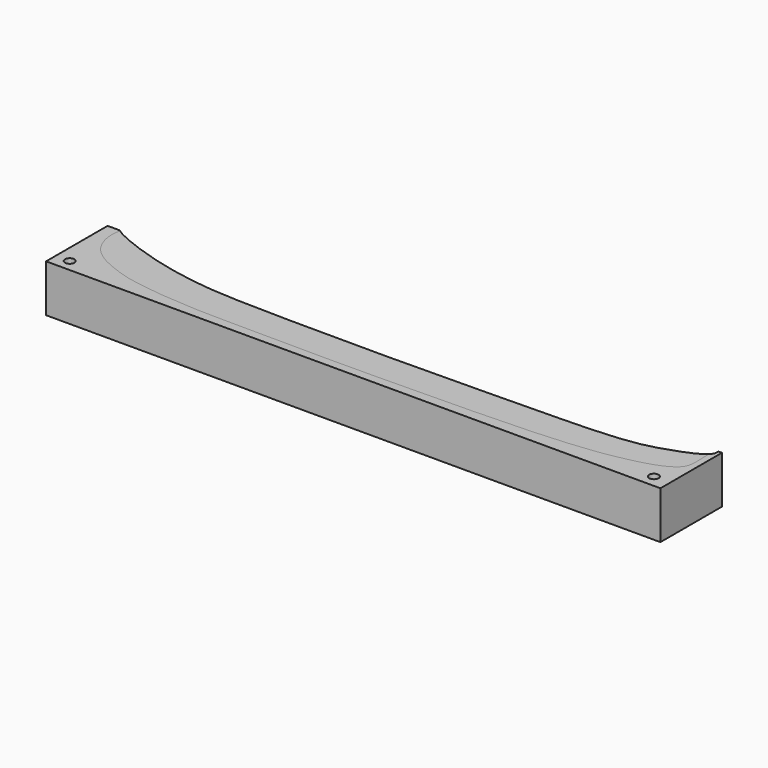
from build123d import *

# Parameters (mm, degrees)
F0_R     = 2.5
F1_DEPTH = 25
F2_DEPTH = 25


with BuildPart() as f1:
    # F0 (on Top) → F1 (new body)
    with BuildSketch(Plane.XY):
        with BuildLine():
            add(Edge.make_bspline(
                [(-139.6352648735, 58.5909076035), (-139.5458598012, 58.5056858184), (-139.4456585226, 58.4177304997), (-139.3350446622, 58.3271923155)],
                knots=[0.0519347063, 0.0519347063, 0.0519347063, 0.0519347063, 0.0546963792, 0.0546963792, 0.0546963792, 0.0546963792], degree=3))
            Line((-139.6352648735, 58.5909076035), (-146.1143195629, 58.5909076035))
            Line((-146.1143195629, 58.5909076035), (-146.1143195629, 18.0872287601))
            Line((-146.1143195629, 18.0872287601), (177.581384778, 18.0872287601))
            Line((177.581384778, 18.0872287601), (177.581384778, 58.5909076035))
            Line((177.581384778, 58.5909076035), (175.656914711, 58.5909076035))
            add(Edge.make_bspline(
                [(174.1334632158, 54.4083624755), (174.7589441287, 54.9900134208), (175.8482915478, 56.281992237), (175.7701217806, 57.3003767663), (175.656914711, 58.5909076035)],
                knots=[0.9557715358, 0.9557715358, 0.9557715358, 0.9557715358, 0.9756366505, 1, 1, 1, 1], degree=3))
            add(Edge.make_bspline(
                [(174.1334632167, 54.4083624753), (174.189893801, 53.4633263464), (174.3830940173, 49.9830432128), (174.5814578504, 43.8028608554), (173.412606994, 39.1153453617), (169.1738071407, 35.6656723823), (161.1580991011, 31.949330655), (146.3971621435, 28.7244595214), (136.9132024714, 27.0832818961), (123.2004081581, 25.6640246994), (108.061622488, 24.5449391203), (75.1273388607, 23.4022640038), (36.4724110663, 23.0155308696), (3.8686453776, 22.312997387), (-51.6045414938, 23.112387578), (-65.9223980086, 22.845835978), (-81.2091917194, 23.7778679853), (-93.4189652884, 24.6907796428), (-104.5493986686, 26.3614067505), (-112.7179166089, 27.9286127663), (-126.7693065864, 33.0119117868), (-135.1654556464, 39.2561404523), (-139.0612596293, 46.549964157), (-140.1279867526, 53.2114625896), (-139.7553147718, 56.1724771596), (-139.3350446622, 58.3271923154)],
                knots=[0.0188545575, 0.0188545575, 0.0188545575, 0.0188545575, 0.0314598083, 0.0643816109, 0.0895220461, 0.1156902656, 0.1509909316, 0.1967167381, 0.2340578143, 0.2765590142, 0.322541721, 0.3901577668, 0.4632708166, 0.5335655039, 0.6202414521, 0.6657616014, 0.7104357276, 0.7524392743, 0.7912043954, 0.825642324, 0.8709436249, 0.9092092615, 0.9425028529, 0.9722649913, 0.9989276527, 0.9989276527, 0.9989276527, 0.9989276527], degree=3))
        make_face()
        with Locations((-138.7113034725, 24.3864804506)):
            Circle(F0_R, mode=Mode.SUBTRACT)
        with Locations((168.9060181379, 24.6229264885)):
            Circle(F0_R, mode=Mode.SUBTRACT)
        with BuildLine():
            add(Edge.make_bspline(
                [(-139.3350446622, 58.3271923155), (-136.1141597239, 55.6908764594), (-111.0874151162, 45.6667122742), (-82.6361830961, 41.2886548618), (-72.3819247416, 40.6527570491), (-60.1944284834, 39.8872044203), (-5.4166536357, 39.1978947339), (50.9345599142, 39.7883198985), (97.2642922875, 40.5971531686), (128.2572778018, 41.2283290703), (146.5654863621, 43.3132315498), (156.8421239655, 46.2439099265), (167.7988057184, 50.1542670042), (172.3071282475, 52.8226380174), (173.893181572, 54.1849183346), (174.1334632158, 54.4083624755)],
                knots=[0.0546963792, 0.0546963792, 0.0546963792, 0.0546963792, 0.1351115349, 0.2217190098, 0.2682255325, 0.3193247047, 0.4318455488, 0.5518058785, 0.6565293625, 0.7420535255, 0.8066374679, 0.8570555771, 0.9092874012, 0.9481402519, 0.9557715358, 0.9557715358, 0.9557715358, 0.9557715358], degree=3))
            add(Edge.make_bspline(
                [(174.1334632167, 54.4083624753), (174.189893801, 53.4633263464), (174.3830940173, 49.9830432128), (174.5814578504, 43.8028608554), (173.412606994, 39.1153453617), (169.1738071407, 35.6656723823), (161.1580991011, 31.949330655), (146.3971621435, 28.7244595214), (136.9132024714, 27.0832818961), (123.2004081581, 25.6640246994), (108.061622488, 24.5449391203), (75.1273388607, 23.4022640038), (36.4724110663, 23.0155308696), (3.8686453776, 22.312997387), (-51.6045414938, 23.112387578), (-65.9223980086, 22.845835978), (-81.2091917194, 23.7778679853), (-93.4189652884, 24.6907796428), (-104.5493986686, 26.3614067505), (-112.7179166089, 27.9286127663), (-126.7693065864, 33.0119117868), (-135.1654556464, 39.2561404523), (-139.0612596293, 46.549964157), (-140.1279867526, 53.2114625896), (-139.7553147718, 56.1724771596), (-139.3350446622, 58.3271923154)],
                knots=[0.0188545575, 0.0188545575, 0.0188545575, 0.0188545575, 0.0314598083, 0.0643816109, 0.0895220461, 0.1156902656, 0.1509909316, 0.1967167381, 0.2340578143, 0.2765590142, 0.322541721, 0.3901577668, 0.4632708166, 0.5335655039, 0.6202414521, 0.6657616014, 0.7104357276, 0.7524392743, 0.7912043954, 0.825642324, 0.8709436249, 0.9092092615, 0.9425028529, 0.9722649913, 0.9989276527, 0.9989276527, 0.9989276527, 0.9989276527], degree=3))
        make_face()
    extrude(amount=F1_DEPTH)


with BuildPart() as f2:
    # F0 (on Top) → F2 (new body)
    with BuildSketch(Plane.XY):
        with BuildLine():
            add(Edge.make_bspline(
                [(-139.6352648735, 58.5909076035), (-139.5458598012, 58.5056858184), (-139.4456585226, 58.4177304997), (-139.3350446622, 58.3271923155)],
                knots=[0.0519347063, 0.0519347063, 0.0519347063, 0.0519347063, 0.0546963792, 0.0546963792, 0.0546963792, 0.0546963792], degree=3))
            Line((-139.6352648735, 58.5909076035), (-146.1143195629, 58.5909076035))
            Line((-146.1143195629, 58.5909076035), (-146.1143195629, 18.0872287601))
            Line((-146.1143195629, 18.0872287601), (177.581384778, 18.0872287601))
            Line((177.581384778, 18.0872287601), (177.581384778, 58.5909076035))
            Line((177.581384778, 58.5909076035), (175.656914711, 58.5909076035))
            add(Edge.make_bspline(
                [(174.1334632158, 54.4083624755), (174.7589441287, 54.9900134208), (175.8482915478, 56.281992237), (175.7701217806, 57.3003767663), (175.656914711, 58.5909076035)],
                knots=[0.9557715358, 0.9557715358, 0.9557715358, 0.9557715358, 0.9756366505, 1, 1, 1, 1], degree=3))
            add(Edge.make_bspline(
                [(174.1334632167, 54.4083624753), (174.189893801, 53.4633263464), (174.3830940173, 49.9830432128), (174.5814578504, 43.8028608554), (173.412606994, 39.1153453617), (169.1738071407, 35.6656723823), (161.1580991011, 31.949330655), (146.3971621435, 28.7244595214), (136.9132024714, 27.0832818961), (123.2004081581, 25.6640246994), (108.061622488, 24.5449391203), (75.1273388607, 23.4022640038), (36.4724110663, 23.0155308696), (3.8686453776, 22.312997387), (-51.6045414938, 23.112387578), (-65.9223980086, 22.845835978), (-81.2091917194, 23.7778679853), (-93.4189652884, 24.6907796428), (-104.5493986686, 26.3614067505), (-112.7179166089, 27.9286127663), (-126.7693065864, 33.0119117868), (-135.1654556464, 39.2561404523), (-139.0612596293, 46.549964157), (-140.1279867526, 53.2114625896), (-139.7553147718, 56.1724771596), (-139.3350446622, 58.3271923154)],
                knots=[0.0188545575, 0.0188545575, 0.0188545575, 0.0188545575, 0.0314598083, 0.0643816109, 0.0895220461, 0.1156902656, 0.1509909316, 0.1967167381, 0.2340578143, 0.2765590142, 0.322541721, 0.3901577668, 0.4632708166, 0.5335655039, 0.6202414521, 0.6657616014, 0.7104357276, 0.7524392743, 0.7912043954, 0.825642324, 0.8709436249, 0.9092092615, 0.9425028529, 0.9722649913, 0.9989276527, 0.9989276527, 0.9989276527, 0.9989276527], degree=3))
        make_face()
        with Locations((-138.7113034725, 24.3864804506)):
            Circle(F0_R, mode=Mode.SUBTRACT)
        with Locations((168.9060181379, 24.6229264885)):
            Circle(F0_R, mode=Mode.SUBTRACT)
    extrude(amount=F2_DEPTH)


solid = Compound([f1.part, f2.part])
